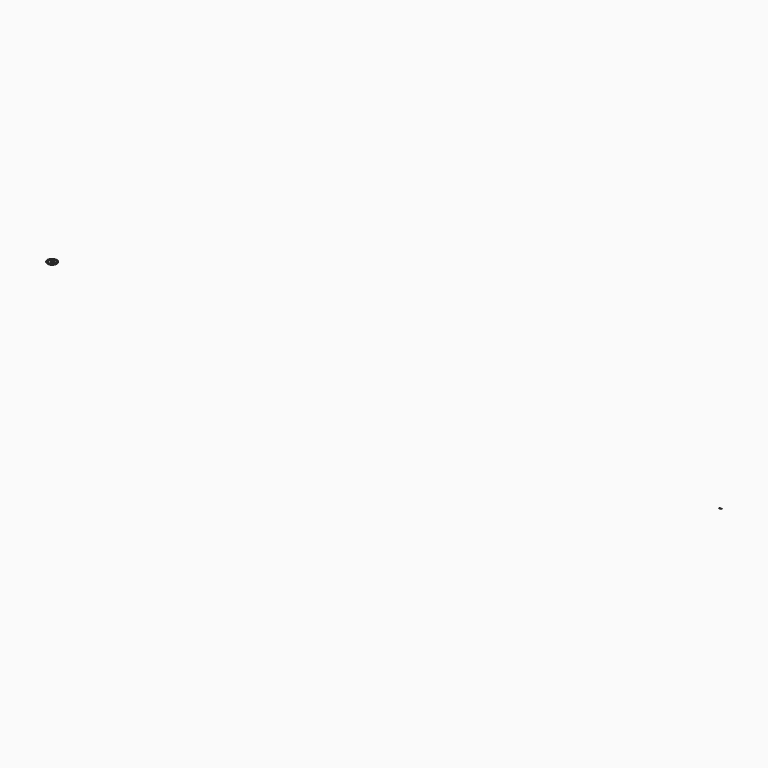
from build123d import *

# Parameters (mm, degrees)
BOX_W              = 1500
BOX_H              = 1500
BOX_DEPTH          = 150
TORUS_R            = 100
BOX008_W           = 120
BOX008_H           = 110
BOX008_DEPTH       = 30
CYLINDER001_R      = 100
CYLINDER001_DEPTH  = 300
CYLINDER_R         = 110
CYLINDER_DEPTH     = 300
BOX009_W           = 100
BOX009_H           = 50
BOX009_DEPTH       = 10
BOX003_W           = 120
BOX003_H           = 110
BOX003_DEPTH       = 30
BOX004_W           = 120
BOX004_H           = 110
BOX004_DEPTH       = 30
BOX001_W           = 100
BOX001_H           = 120
BOX001_DEPTH       = 50
BOX011_W           = 250
BOX011_H           = 50
BOX011_DEPTH       = 10
BOX010_W           = 100
BOX010_H           = 50
BOX010_DEPTH       = 10
BOX007_W           = 380
BOX007_H           = 100
BOX007_DEPTH       = 10
BOX013_W           = 100
BOX013_H           = 50
BOX013_DEPTH       = 10
BOX012_W           = 250
BOX012_H           = 100
BOX012_DEPTH       = 10
BOX012_PITCH_ANGLE = -20
BOX016_W           = 250
BOX016_H           = 50
BOX016_DEPTH       = 10
BOX015_W           = 100
BOX015_H           = 50
BOX015_DEPTH       = 10
BOX014_W           = 380
BOX014_H           = 100
BOX014_DEPTH       = 10


with BuildPart() as obj1:
    # Box → Box (new body)
    with BuildSketch(Plane(origin=(-750, -750, 0), x_dir=(1, 0, 0), z_dir=(0, 0, 1))):
        with Locations((750, 750)):
            Rectangle(BOX_W, BOX_H)
    extrude(amount=BOX_DEPTH)


with BuildPart() as cut:
    # Torus → Torus (revolve)
    with BuildSketch(Plane.XZ):
        with Locations((610, 0)):
            Circle(TORUS_R)
    revolve(axis=Axis((0, 0, 0), (0, 0, 1)))

    # Cut: cut obj1
    add(obj1.part, mode=Mode.SUBTRACT)


with BuildPart() as obj2:
    # Box008 → Box008 (new body)
    with BuildSketch(Plane(origin=(4, -55, 10), x_dir=(1, 0, 0), z_dir=(0, 0, 1))):
        with Locations((60, 55)):
            Rectangle(BOX008_W, BOX008_H)
    extrude(amount=BOX008_DEPTH)


with BuildPart() as zylinder001:
    # Cylinder001 → Cylinder001 (new body)
    with BuildSketch(Plane.XY.offset(-10)):
        Circle(CYLINDER001_R)
    extrude(amount=CYLINDER001_DEPTH)


with BuildPart() as cut005:
    # Cylinder → Cylinder (new body)
    with BuildSketch(Plane.XY.offset(-200)):
        Circle(CYLINDER_R)
    extrude(amount=CYLINDER_DEPTH)

    # Cut004: cut Zylinder001
    add(zylinder001.part, mode=Mode.SUBTRACT)

    # Cut005: cut obj2
    add(obj2.part, mode=Mode.SUBTRACT)


with BuildPart() as obj3:
    # Box009 → Box009 (new body)
    with BuildSketch(Plane(origin=(100, -25, 0), x_dir=(1, 0, 0), z_dir=(0, 0, 1))):
        with Locations((50, 25)):
            Rectangle(BOX009_W, BOX009_H)
    extrude(amount=BOX009_DEPTH)


with BuildPart() as obj4:
    # Box003 → Box003 (new body)
    with BuildSketch(Plane(origin=(4, -55, 10), x_dir=(1, 0, 0), z_dir=(0, 0, 1))):
        with Locations((60, 55)):
            Rectangle(BOX003_W, BOX003_H)
    extrude(amount=BOX003_DEPTH)


with BuildPart() as obj5:
    # Box004 → Box004 (new body)
    with BuildSketch(Plane(origin=(4, -55, 10), x_dir=(1, 0, 0), z_dir=(0, 0, 1))):
        with Locations((60, 55)):
            Rectangle(BOX004_W, BOX004_H)
    extrude(amount=BOX004_DEPTH)


with BuildPart() as cut008:
    # Box001 → Box001 (new body)
    with BuildSketch(Plane(origin=(12, -60, 0), x_dir=(1, 0, 0), z_dir=(0, 0, 1))):
        with Locations((50, 60)):
            Rectangle(BOX001_W, BOX001_H)
    extrude(amount=BOX001_DEPTH)

    # Cut003: cut obj5
    add(obj5.part, mode=Mode.SUBTRACT)

    # Cut006: cut obj4
    add(obj4.part, mode=Mode.SUBTRACT)

    # Cut008: cut obj3
    add(obj3.part, mode=Mode.SUBTRACT)


with BuildPart() as obj6:
    # Box011 → Box011 (new body)
    with BuildSketch(Plane(origin=(245, -25, 0), x_dir=(1, 0, 0), z_dir=(0, 0, 1))):
        with Locations((125, 25)):
            Rectangle(BOX011_W, BOX011_H)
    extrude(amount=BOX011_DEPTH)


with BuildPart() as obj7:
    # Box010 → Box010 (new body)
    with BuildSketch(Plane(origin=(100, -25, 0), x_dir=(1, 0, 0), z_dir=(0, 0, 1))):
        with Locations((50, 25)):
            Rectangle(BOX010_W, BOX010_H)
    extrude(amount=BOX010_DEPTH)


with BuildPart() as cut009:
    # Box007 → Box007 (new body)
    with BuildSketch(Plane(origin=(126, -50, 0), x_dir=(1, 0, 0), z_dir=(0, 0, 1))):
        with Locations((190, 50)):
            Rectangle(BOX007_W, BOX007_H)
    extrude(amount=BOX007_DEPTH)

    # Cut007: cut obj7
    add(obj7.part, mode=Mode.SUBTRACT)

    # Cut009: cut obj6
    add(obj6.part, mode=Mode.SUBTRACT)


with BuildPart() as obj8:
    # Box013 → Box013 (new body)
    with BuildSketch(Plane(origin=(260, -25, 0), x_dir=(1, 0, 0), z_dir=(0, 0, 1))):
        with Locations((50, 25)):
            Rectangle(BOX013_W, BOX013_H)
    extrude(amount=BOX013_DEPTH)


with BuildPart() as cut010:
    # Box012 → Box012 (new body)
    with BuildSketch(Plane.XY):
        with Locations((125, 50)):
            Rectangle(BOX012_W, BOX012_H)
    extrude(amount=BOX012_DEPTH)


with BuildPart() as cut010_1:
    # Box012 pitch: moved
    add(cut010.part.rotate(Axis((0, 0, 0), (0, 1, 0)), BOX012_PITCH_ANGLE))


with BuildPart() as cut010_2:
    # Box012 placement: moved
    add(cut010_1.part.moved(Location((90, -50, -85))))

    # Cut010: cut obj8
    add(obj8.part, mode=Mode.SUBTRACT)


with BuildPart() as obj9:
    # Box016 → Box016 (new body)
    with BuildSketch(Plane(origin=(245, -25, 0), x_dir=(1, 0, 0), z_dir=(0, 0, 1))):
        with Locations((125, 25)):
            Rectangle(BOX016_W, BOX016_H)
    extrude(amount=BOX016_DEPTH)


with BuildPart() as obj10:
    # Box015 → Box015 (new body)
    with BuildSketch(Plane(origin=(100, -25, 0), x_dir=(1, 0, 0), z_dir=(0, 0, 1))):
        with Locations((50, 25)):
            Rectangle(BOX015_W, BOX015_H)
    extrude(amount=BOX015_DEPTH)


with BuildPart() as cut012:
    # Box014 → Box014 (new body)
    with BuildSketch(Plane(origin=(126, -50, 0), x_dir=(1, 0, 0), z_dir=(0, 0, 1))):
        with Locations((190, 50)):
            Rectangle(BOX014_W, BOX014_H)
    extrude(amount=BOX014_DEPTH)

    # Cut011: cut obj10
    add(obj10.part, mode=Mode.SUBTRACT)

    # Cut012: cut obj9
    add(obj9.part, mode=Mode.SUBTRACT)


with BuildPart() as cut012_1:
    # Cut012 placement: moved
    add(cut012.part.moved(Location((100000, 0, 0))))


solid = Compound([cut.part, cut005.part, cut008.part, cut009.part, cut010_2.part, cut012_1.part])
